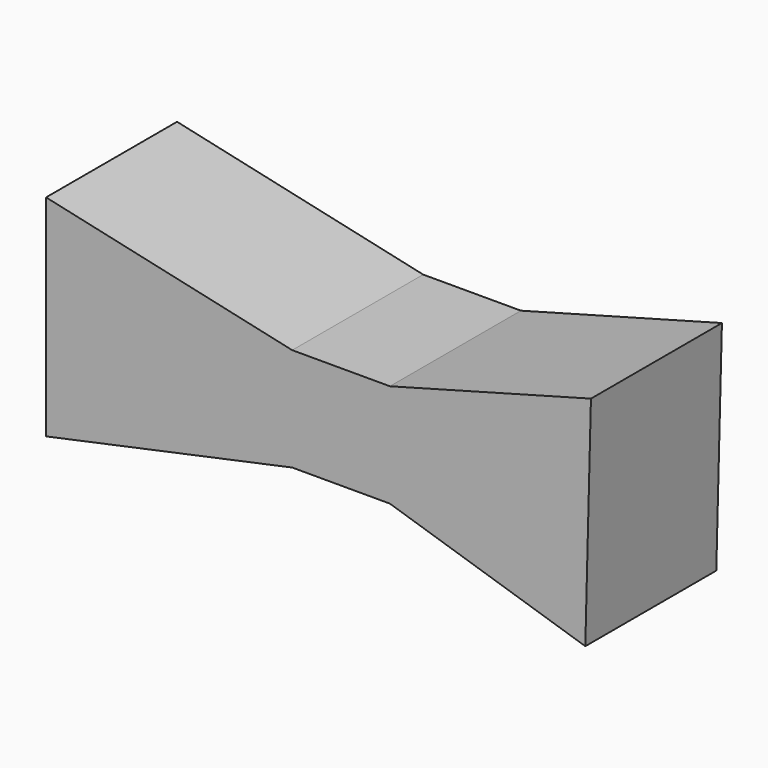
from build123d import *

# Parameters (mm, degrees)
F0_W     = 15.156722
F0_H     = 16.031148
F1_DEPTH = 25.4
F2_DEPTH = 25.4
F3_DEPTH = 25.4


with BuildPart() as f1:
    # F0 (on Front) → F1 (new body)
    with BuildSketch(Plane.XZ):
        Rectangle(F0_W, F0_H)
        Polygon((7.578361, 8.015574), (7.578361, -8.015574), (37.891805, -17.634263), (38.766231, 16.468361), align=None)
        Polygon((-45.761641, -16.176885), (-7.578361, -8.015574), (-7.578361, 8.015574), (-45.761641, 16.468361), align=None)
    extrude(amount=F1_DEPTH)

    # F0 (on Front) → F2 (join)
    with BuildSketch(Plane.XZ):
        Rectangle(F0_W, F0_H)
        Polygon((7.578361, 8.015574), (7.578361, -8.015574), (37.891805, -17.634263), (38.766231, 16.468361), align=None)
        Polygon((-45.761641, -16.176885), (-7.578361, -8.015574), (-7.578361, 8.015574), (-45.761641, 16.468361), align=None)
    extrude(amount=F2_DEPTH)

    # F0 (on Front) → F3 (join)
    with BuildSketch(Plane.XZ):
        Rectangle(F0_W, F0_H)
        Polygon((7.578361, 8.015574), (7.578361, -8.015574), (37.891805, -17.634263), (38.766231, 16.468361), align=None)
        Polygon((-45.761641, -16.176885), (-7.578361, -8.015574), (-7.578361, 8.015574), (-45.761641, 16.468361), align=None)
    extrude(amount=F3_DEPTH)


solid = f1.part
